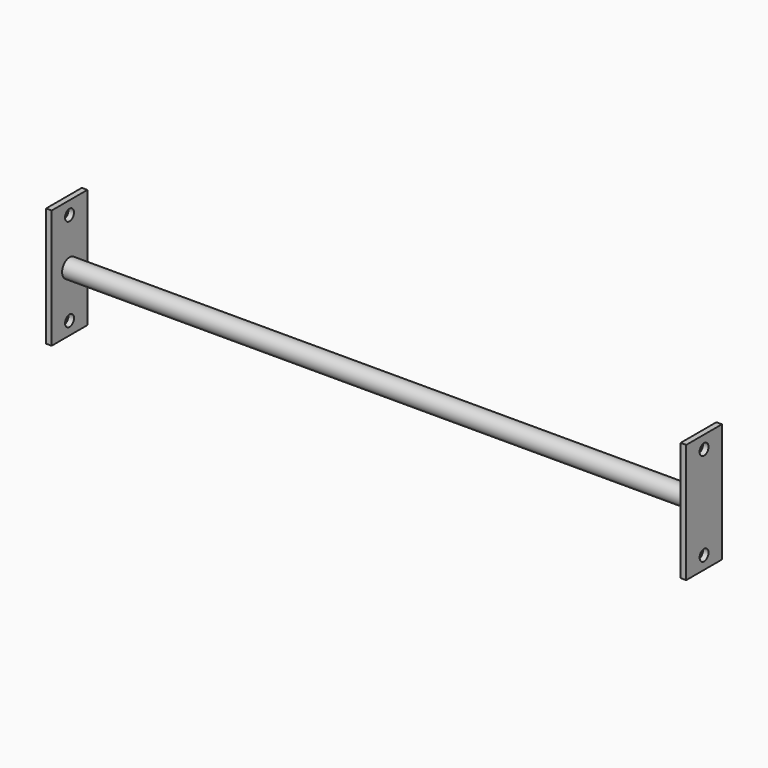
from build123d import *

# Parameters (mm, degrees)
F0_W          = 9.525
F0_H          = 203.2
F1_DEPTH      = 38.1
F1_DEPTH_BACK = 38.1
F2_R          = 15.875
F3_DEPTH      = 536.575
F3_DEPTH_BACK = 536.575
F4_R          = 9.525
F5_DEPTH      = 1092.201


with BuildPart() as f1:
    # F0 (on Front) → F1 (new body, two sides)
    with BuildSketch(Plane.XZ) as f1_sk:
        with Locations((-541.3375, 0)):
            Rectangle(F0_W, F0_H)
        with Locations((541.3375, 0)):
            Rectangle(F0_W, F0_H)
    extrude(amount=F1_DEPTH)
    extrude(f1_sk.sketch, amount=-F1_DEPTH_BACK)

    # F4 (on face) → F5 (cut, through all)
    with BuildSketch(Plane.YZ.offset(546.1)):
        with Locations((0, -79.375)):
            Circle(F4_R)
        with Locations((0, 79.375)):
            Circle(F4_R)
    extrude(amount=-F5_DEPTH, mode=Mode.SUBTRACT)


with BuildPart() as f3:
    # F2 (on Right) → F3 (new body, two sides)
    with BuildSketch(Plane.YZ) as f3_sk:
        Circle(F2_R)
    extrude(amount=F3_DEPTH)
    extrude(f3_sk.sketch, amount=-F3_DEPTH_BACK)


solid = Compound([f1.part, f3.part])
